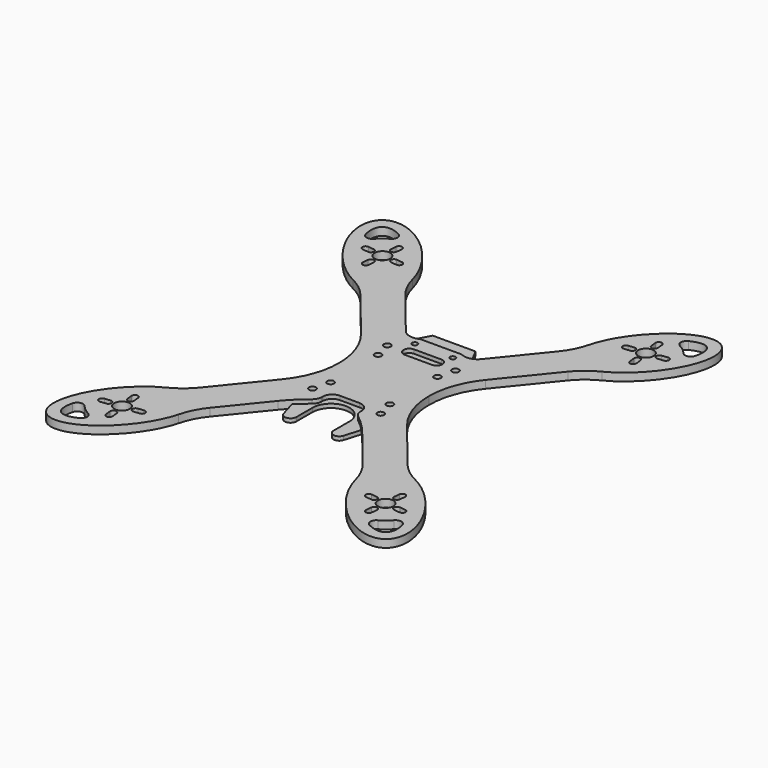
from build123d import *

# Parameters (mm, degrees)
F0_R     = 4
F0_R_2   = 1.75
F0_R_3   = 1.4
F1_DEPTH = 4
F2_R     = 1.75
F3_DEPTH = 2


with BuildPart() as f1:
    # F0 (on Top) → F1 (new body)
    with BuildSketch(Plane.XY):
        with BuildLine():
            ThreePointArc((-39.2393267224, 62.7576745554), (-42.9756447168, 68.5517778094), (-45.3841854866, 75.0117031985))
            add(Edge.make_bspline(
                [(-45.3841854866, 75.0117031985), (-59.3937717027, 130.1200718801), (-87.1608741604, 107.6347156618), (-114.9279766181, 85.1493594434), (-63.9366147696, 59.9882421881)],
                knots=[0.8420594112, 0.8420594112, 0.8420594112, 3.1415926536, 3.1415926536, 5.441125896, 5.441125896, 5.441125896], degree=2, weights=[1, 0.4087004495, 1, 0.4087004495, 1]))
            ThreePointArc((-63.9366147696, 59.9882421881), (-58.1186180332, 56.2892398026), (-53.2279540286, 51.4299075165))
            Line((-53.2279540286, 51.4299075165), (-31.9653802705, 25.172815642))
            ThreePointArc((-31.9653802705, 25.172815642), (-25.3455590851, 13.3522743694), (-23.0512187288, 0))
            ThreePointArc((-23.0512187288, 0), (-25.3455590851, -13.3522743694), (-31.9653802705, -25.172815642))
            Line((-31.9653802705, -25.172815642), (-53.2279540286, -51.4299075165))
            ThreePointArc((-53.2279540286, -51.4299075165), (-58.1186180332, -56.2892398026), (-63.9366147696, -59.9882421881))
            add(Edge.make_bspline(
                [(-63.9366147696, -59.9882421881), (-114.9279766181, -85.1493594434), (-87.1608741604, -107.6347156618), (-59.3937717027, -130.1200718801), (-45.3841854866, -75.0117031985)],
                knots=[0.8420594112, 0.8420594112, 0.8420594112, 3.1415926536, 3.1415926536, 5.441125896, 5.441125896, 5.441125896], degree=2, weights=[1, 0.4087004495, 1, 0.4087004495, 1]))
            ThreePointArc((-45.3841854866, -75.0117031985), (-42.9756447168, -68.5517778094), (-39.2393267224, -62.7576745554))
            Line((-39.2393267224, -62.7576745554), (-21.5595523941, -40.9249715093))
            ThreePointArc((-21.5595523941, -40.9249715093), (-17.0067464625, -35.910204232), (-11.917753439, -31.4405193771))
            ThreePointArc((-11.917753439, -31.4405193771), (-10.504934216, -29.6931545031), (-10, -27.5035464109))
            Line((-10, -27.5035464109), (-10, -27))
            ThreePointArc((-10, -27), (-8.5355339059, -23.4644660941), (-5, -22))
            Line((-5, -22), (5, -22))
            ThreePointArc((5, -22), (8.5355339059, -23.4644660941), (10, -27))
            Line((10, -27), (10, -27.5035464109))
            ThreePointArc((10, -27.5035464109), (10.504934216, -29.6931545031), (11.917753439, -31.4405193771))
            ThreePointArc((11.917753439, -31.4405193771), (17.0067464625, -35.910204232), (21.5595523941, -40.9249715093))
            Line((21.5595523941, -40.9249715093), (39.2393267224, -62.7576745554))
            ThreePointArc((39.2393267224, -62.7576745554), (42.9756447168, -68.5517778094), (45.3841854866, -75.0117031985))
            add(Edge.make_bspline(
                [(45.3841854866, -75.0117031985), (59.3937717027, -130.1200718801), (87.1608741604, -107.6347156618), (114.9279766181, -85.1493594434), (63.9366147696, -59.9882421881)],
                knots=[0.8420594112, 0.8420594112, 0.8420594112, 3.1415926536, 3.1415926536, 5.441125896, 5.441125896, 5.441125896], degree=2, weights=[1, 0.4087004495, 1, 0.4087004495, 1]))
            ThreePointArc((63.9366147696, -59.9882421881), (58.1186180332, -56.2892398026), (53.2279540286, -51.4299075165))
            Line((53.2279540286, -51.4299075165), (31.9653802705, -25.172815642))
            ThreePointArc((31.9653802705, -25.172815642), (25.3455590851, -13.3522743694), (23.0512187288, 0))
            ThreePointArc((23.0512187288, 0), (25.3455590851, 13.3522743694), (31.9653802705, 25.172815642))
            Line((31.9653802705, 25.172815642), (53.2279540286, 51.4299075165))
            ThreePointArc((53.2279540286, 51.4299075165), (58.1186180332, 56.2892398026), (63.9366147696, 59.9882421881))
            add(Edge.make_bspline(
                [(63.9366147696, 59.9882421881), (114.9279766181, 85.1493594434), (87.1608741604, 107.6347156618), (59.3937717027, 130.1200718801), (45.3841854866, 75.0117031985)],
                knots=[0.8420594112, 0.8420594112, 0.8420594112, 3.1415926536, 3.1415926536, 5.441125896, 5.441125896, 5.441125896], degree=2, weights=[1, 0.4087004495, 1, 0.4087004495, 1]))
            ThreePointArc((45.3841854866, 75.0117031985), (42.9756447168, 68.5517778094), (39.2393267224, 62.7576745554))
            Line((39.2393267224, 62.7576745554), (21.5595523941, 40.9249715093))
            Line((21.5595523941, 40.9249715093), (19.4235013429, 38.2871681399))
            ThreePointArc((19.4235013429, 38.2871681399), (15.7597702623, 35.9215326825), (11.4065789789, 36.183986865))
            ThreePointArc((11.4065789789, 36.183986865), (10.5932256837, 36.4202907649), (9.75, 36.5))
            Line((9.75, 36.5), (-9.75, 36.5))
            ThreePointArc((-9.75, 36.5), (-10.5932256837, 36.4202907649), (-11.4065789789, 36.183986865))
            ThreePointArc((-11.4065789789, 36.183986865), (-15.7597702623, 35.9215326825), (-19.4235013429, 38.2871681399))
            Line((-19.4235013429, 38.2871681399), (-21.5595523941, 40.9249715093))
            Line((-21.5595523941, 40.9249715093), (-39.2393267224, 62.7576745554))
        make_face()
        with BuildLine():
            add(Edge.make_bspline(
                [(-84.6149534226, -94.0407715285), (-88.5364815422, -109.3334493061), (-74.3933170072, -102.3180894908)],
                knots=[5.5655043619, 5.5655043619, 5.5655043619, 7.0008662525, 7.0008662525, 7.0008662525], degree=2, weights=[1, 0.7533328553, 1]))
            ThreePointArc((-84.6149534226, -94.0407715285), (-82.3396279682, -91.8529919558), (-79.3661377164, -92.9121619636))
            ThreePointArc((-79.3661377165, -92.9121619636), (-77.0917479036, -95.2003802785), (-74.3806604174, -96.9493218783))
            ThreePointArc((-74.3806604174, -96.9493218782), (-72.7264124296, -99.6376204066), (-74.3933170072, -102.3180894908))
        make_face(mode=Mode.SUBTRACT)
        with BuildLine():
            ThreePointArc((-74.283579899, -82.6313908353), (-72.5250993252, -84.0553803266), (-73.9490888165, -85.8138609005))
            Line((-73.9490888165, -85.8138609005), (-76.9326545026, -86.1274462903))
            ThreePointArc((-76.9326545026, -86.1274462903), (-78.6911350764, -84.7034567989), (-77.2671455851, -82.9449762251))
            Line((-77.2671455851, -82.9449762251), (-74.283579899, -82.6313908353))
        make_face(mode=Mode.SUBTRACT)
        with BuildLine():
            ThreePointArc((-65.0676866042, -92.8239033214), (-66.4916760956, -94.5823838952), (-68.2501566694, -93.1583944039))
            Line((-68.2501566694, -93.1583944039), (-68.5637420592, -90.1748287177))
            ThreePointArc((-68.5637420592, -90.1748287177), (-67.1397525678, -88.4163481439), (-65.381271994, -89.8403376353))
            Line((-65.381271994, -89.8403376353), (-65.0676866042, -92.8239033214))
        make_face(mode=Mode.SUBTRACT)
        with Locations((-67.6519420379, -83.5431908566)):
            Circle(F0_R, mode=Mode.SUBTRACT)
        with BuildLine():
            Line((-58.0367384906, -84.1414054882), (-61.0203041767, -84.454990878))
            ThreePointArc((-61.0203041767, -84.454990878), (-62.7787847506, -83.0310013866), (-61.3547952592, -81.2725208128))
            Line((-61.3547952592, -81.2725208128), (-58.3712295731, -80.958935423))
            ThreePointArc((-58.3712295731, -80.958935423), (-56.6127489993, -82.3829249144), (-58.0367384906, -84.1414054882))
        make_face(mode=Mode.SUBTRACT)
        with BuildLine():
            ThreePointArc((-66.7401420165, -76.9115529955), (-68.1641315079, -78.6700335693), (-69.9226120817, -77.246044078))
            Line((-69.9226120817, -77.246044078), (-70.2361974715, -74.2624783919))
            ThreePointArc((-70.2361974715, -74.2624783919), (-68.8122079801, -72.503997818), (-67.0537274063, -73.9279873094))
            Line((-67.0537274063, -73.9279873094), (-66.7401420165, -76.9115529955))
        make_face(mode=Mode.SUBTRACT)
        with Locations((-17.5, -24)):
            Circle(F0_R_2, mode=Mode.SUBTRACT)
        with Locations((-15.25, -15.25)):
            Circle(F0_R_2, mode=Mode.SUBTRACT)
        with BuildLine():
            ThreePointArc((65.381271994, -89.8403376353), (67.1397525678, -88.4163481439), (68.5637420592, -90.1748287177))
            Line((68.5637420592, -90.1748287177), (68.2501566694, -93.1583944039))
            ThreePointArc((68.2501566694, -93.1583944039), (66.4916760956, -94.5823838952), (65.0676866042, -92.8239033214))
            Line((65.0676866042, -92.8239033214), (65.381271994, -89.8403376353))
        make_face(mode=Mode.SUBTRACT)
        with BuildLine():
            Line((58.3712295731, -80.958935423), (61.3547952592, -81.2725208128))
            ThreePointArc((61.3547952592, -81.2725208128), (62.7787847506, -83.0310013866), (61.0203041767, -84.454990878))
            Line((61.0203041767, -84.454990878), (58.0367384906, -84.1414054882))
            ThreePointArc((58.0367384906, -84.1414054882), (56.6127489993, -82.3829249144), (58.3712295731, -80.958935423))
        make_face(mode=Mode.SUBTRACT)
        with Locations((67.6519420379, -83.5431908566)):
            Circle(F0_R, mode=Mode.SUBTRACT)
        with BuildLine():
            add(Edge.make_bspline(
                [(74.3933170072, -102.3180894908), (88.5364815422, -109.3334493061), (84.6149534226, -94.0407715285)],
                knots=[5.5655043619, 5.5655043619, 5.5655043619, 7.0008662525, 7.0008662525, 7.0008662525], degree=2, weights=[1, 0.7533328553, 1]))
            ThreePointArc((74.3933170072, -102.3180894908), (72.7264124296, -99.6376204066), (74.3806604174, -96.9493218782))
            ThreePointArc((74.3806604174, -96.9493218783), (77.0917479036, -95.2003802785), (79.3661377165, -92.9121619636))
            ThreePointArc((79.3661377164, -92.9121619636), (82.3396279682, -91.8529919558), (84.6149534226, -94.0407715285))
        make_face(mode=Mode.SUBTRACT)
        with BuildLine():
            Line((76.9326545026, -86.1274462903), (73.9490888165, -85.8138609005))
            ThreePointArc((73.9490888165, -85.8138609005), (72.5250993252, -84.0553803266), (74.283579899, -82.6313908353))
            Line((74.283579899, -82.6313908353), (77.2671455851, -82.9449762251))
            ThreePointArc((77.2671455851, -82.9449762251), (78.6911350764, -84.7034567989), (76.9326545026, -86.1274462903))
        make_face(mode=Mode.SUBTRACT)
        with BuildLine():
            Line((70.2361974715, -74.2624783919), (69.9226120817, -77.246044078))
            ThreePointArc((69.9226120817, -77.246044078), (68.1641315079, -78.6700335693), (66.7401420165, -76.9115529955))
            Line((66.7401420165, -76.9115529955), (67.0537274063, -73.9279873094))
            ThreePointArc((67.0537274063, -73.9279873094), (68.8122079801, -72.503997818), (70.2361974715, -74.2624783919))
        make_face(mode=Mode.SUBTRACT)
        with Locations((17.5, -24)):
            Circle(F0_R_2, mode=Mode.SUBTRACT)
        with Locations((15.25, -15.25)):
            Circle(F0_R_2, mode=Mode.SUBTRACT)
        with Locations((-15.25, 15.25)):
            Circle(F0_R_2, mode=Mode.SUBTRACT)
        with Locations((-17.5, 24)):
            Circle(F0_R_2, mode=Mode.SUBTRACT)
        with Locations((-9.75, 32)):
            Circle(F0_R_3, mode=Mode.SUBTRACT)
        with BuildLine():
            Line((-66.7401420165, 76.9115529955), (-67.0537274063, 73.9279873094))
            ThreePointArc((-67.0537274063, 73.9279873094), (-68.8122079801, 72.503997818), (-70.2361974715, 74.2624783919))
            Line((-70.2361974715, 74.2624783919), (-69.9226120817, 77.246044078))
            ThreePointArc((-69.9226120817, 77.246044078), (-68.1641315079, 78.6700335693), (-66.7401420165, 76.9115529955))
        make_face(mode=Mode.SUBTRACT)
        with BuildLine():
            Line((-74.283579899, 82.6313908353), (-77.2671455851, 82.9449762251))
            ThreePointArc((-77.2671455851, 82.9449762251), (-78.6911350764, 84.7034567989), (-76.9326545026, 86.1274462903))
            Line((-76.9326545026, 86.1274462903), (-73.9490888165, 85.8138609005))
            ThreePointArc((-73.9490888165, 85.8138609005), (-72.5250993252, 84.0553803266), (-74.283579899, 82.6313908353))
        make_face(mode=Mode.SUBTRACT)
        with BuildLine():
            add(Edge.make_bspline(
                [(-74.3933170072, 102.3180894908), (-88.5364815422, 109.3334493061), (-84.6149534226, 94.0407715285)],
                knots=[5.5655043619, 5.5655043619, 5.5655043619, 7.0008662525, 7.0008662525, 7.0008662525], degree=2, weights=[1, 0.7533328553, 1]))
            ThreePointArc((-74.3933170072, 102.3180894908), (-72.7264124296, 99.6376204066), (-74.3806604174, 96.9493218782))
            ThreePointArc((-74.3806604174, 96.9493218783), (-77.0917479036, 95.2003802785), (-79.3661377165, 92.9121619636))
            ThreePointArc((-79.3661377164, 92.9121619636), (-82.3396279682, 91.8529919558), (-84.6149534226, 94.0407715285))
        make_face(mode=Mode.SUBTRACT)
        with Locations((-67.6519420379, 83.5431908566)):
            Circle(F0_R, mode=Mode.SUBTRACT)
        with BuildLine():
            Line((-61.0203041767, 84.454990878), (-58.0367384906, 84.1414054882))
            ThreePointArc((-58.0367384906, 84.1414054882), (-56.6127489993, 82.3829249144), (-58.3712295731, 80.958935423))
            Line((-58.3712295731, 80.958935423), (-61.3547952592, 81.2725208128))
            ThreePointArc((-61.3547952592, 81.2725208128), (-62.7787847506, 83.0310013866), (-61.0203041767, 84.454990878))
        make_face(mode=Mode.SUBTRACT)
        with BuildLine():
            Line((-65.0676866042, 92.8239033214), (-65.381271994, 89.8403376353))
            ThreePointArc((-65.381271994, 89.8403376353), (-67.1397525678, 88.4163481439), (-68.5637420592, 90.1748287177))
            Line((-68.5637420592, 90.1748287177), (-68.2501566694, 93.1583944039))
            ThreePointArc((-68.2501566694, 93.1583944039), (-66.4916760956, 94.5823838952), (-65.0676866042, 92.8239033214))
        make_face(mode=Mode.SUBTRACT)
        with BuildLine():
            ThreePointArc((-10, 25), (-9.1213203436, 27.1213203436), (-7, 28))
            Line((-7, 28), (7, 28))
            ThreePointArc((7, 28), (9.1213203436, 27.1213203436), (10, 25))
            ThreePointArc((10, 25), (9.1213203436, 22.8786796564), (7, 22))
            Line((7, 22), (-7, 22))
            ThreePointArc((-7, 22), (-9.1213203436, 22.8786796564), (-10, 25))
        make_face(mode=Mode.SUBTRACT)
        with Locations((15.25, 15.25)):
            Circle(F0_R_2, mode=Mode.SUBTRACT)
        with Locations((17.5, 24)):
            Circle(F0_R_2, mode=Mode.SUBTRACT)
        with Locations((9.75, 32)):
            Circle(F0_R_3, mode=Mode.SUBTRACT)
        with BuildLine():
            ThreePointArc((66.7401420165, 76.9115529955), (68.1641315079, 78.6700335693), (69.9226120817, 77.246044078))
            Line((69.9226120817, 77.246044078), (70.2361974715, 74.2624783919))
            ThreePointArc((70.2361974715, 74.2624783919), (68.8122079801, 72.503997818), (67.0537274063, 73.9279873094))
            Line((67.0537274063, 73.9279873094), (66.7401420165, 76.9115529955))
        make_face(mode=Mode.SUBTRACT)
        with BuildLine():
            Line((58.0367384906, 84.1414054882), (61.0203041767, 84.454990878))
            ThreePointArc((61.0203041767, 84.454990878), (62.7787847506, 83.0310013866), (61.3547952592, 81.2725208128))
            Line((61.3547952592, 81.2725208128), (58.3712295731, 80.958935423))
            ThreePointArc((58.3712295731, 80.958935423), (56.6127489993, 82.3829249144), (58.0367384906, 84.1414054882))
        make_face(mode=Mode.SUBTRACT)
        with Locations((67.6519420379, 83.5431908566)):
            Circle(F0_R, mode=Mode.SUBTRACT)
        with BuildLine():
            ThreePointArc((65.0676866042, 92.8239033214), (66.4916760956, 94.5823838952), (68.2501566694, 93.1583944039))
            Line((68.2501566694, 93.1583944039), (68.5637420592, 90.1748287177))
            ThreePointArc((68.5637420592, 90.1748287177), (67.1397525678, 88.4163481439), (65.381271994, 89.8403376353))
            Line((65.381271994, 89.8403376353), (65.0676866042, 92.8239033214))
        make_face(mode=Mode.SUBTRACT)
        with BuildLine():
            ThreePointArc((74.283579899, 82.6313908353), (72.5250993252, 84.0553803266), (73.9490888165, 85.8138609005))
            Line((73.9490888165, 85.8138609005), (76.9326545026, 86.1274462903))
            ThreePointArc((76.9326545026, 86.1274462903), (78.6911350764, 84.7034567989), (77.2671455851, 82.9449762251))
            Line((77.2671455851, 82.9449762251), (74.283579899, 82.6313908353))
        make_face(mode=Mode.SUBTRACT)
        with BuildLine():
            add(Edge.make_bspline(
                [(84.6149534226, 94.0407715285), (88.5364815422, 109.3334493061), (74.3933170072, 102.3180894908)],
                knots=[5.5655043619, 5.5655043619, 5.5655043619, 7.0008662525, 7.0008662525, 7.0008662525], degree=2, weights=[1, 0.7533328553, 1]))
            ThreePointArc((84.6149534226, 94.0407715285), (82.3396279682, 91.8529919558), (79.3661377164, 92.9121619636))
            ThreePointArc((79.3661377165, 92.9121619636), (77.0917479036, 95.2003802785), (74.3806604174, 96.9493218783))
            ThreePointArc((74.3806604174, 96.9493218782), (72.7264124296, 99.6376204066), (74.3933170072, 102.3180894908))
        make_face(mode=Mode.SUBTRACT)
    extrude(amount=F1_DEPTH)


with BuildPart() as f3:
    # F2 (on Top) → F3 (new body)
    with BuildSketch(Plane.XY):
        with BuildLine():
            Line((0, 28), (-17.5, 28))
            ThreePointArc((-17.5, 28), (-19.5696459988, 27.4229468941), (-21.0421441717, 25.8582827198))
            ThreePointArc((-21.0421441717, 25.8582827198), (-21.4713339357, 23.5219761813), (-20.5, 21.3542486889))
            ThreePointArc((-20.5, 21.3542486889), (-18.6458565331, 18.2754043172), (-18, 14.7398704113))
            Line((-18, 14.7398704113), (-18, 0))
            Line((-18, 0), (-18, -14.7398704113))
            ThreePointArc((-18, -14.7398704113), (-18.6458565331, -18.2754043172), (-20.5, -21.3542486889))
            ThreePointArc((-20.5, -21.3542486889), (-21.4061344054, -23.1385396082), (-21.3345698033, -25.1384526445))
            Line((-21.3345698033, -25.1384526445), (-15.3759273525, -45.2085280403))
            ThreePointArc((-15.3759273525, -45.2085280403), (-12.0685965098, -47.3235083609), (-9.5, -44.3546885569))
            Line((-9.5, -44.3546885569), (-9.5, -34))
            ThreePointArc((-9.5, -34), (0, -24.5), (9.5, -34))
            Line((9.5, -34), (9.5, -44.3546885569))
            ThreePointArc((9.5, -44.3546885569), (12.0685965098, -47.3235083609), (15.3759273525, -45.2085280403))
            Line((15.3759273525, -45.2085280403), (21.3345698033, -25.1384526445))
            ThreePointArc((21.3345698033, -25.1384526445), (21.4061344054, -23.1385396082), (20.5, -21.3542486889))
            ThreePointArc((20.5, -21.3542486889), (18.6458565331, -18.2754043172), (18, -14.7398704113))
            Line((18, -14.7398704113), (18, 0))
            Line((18, 0), (18, 14.7398704113))
            ThreePointArc((18, 14.7398704113), (18.6458565331, 18.2754043172), (20.5, 21.3542486889))
            ThreePointArc((20.5, 21.3542486889), (21.4713339357, 23.5219761813), (21.0421441717, 25.8582827198))
            ThreePointArc((21.0421441717, 25.8582827198), (19.5696459988, 27.4229468941), (17.5, 28))
            Line((17.5, 28), (0, 28))
        make_face()
        with Locations((-17.5, -24)):
            Circle(F2_R, mode=Mode.SUBTRACT)
        with Locations((17.5, -24)):
            Circle(F2_R, mode=Mode.SUBTRACT)
        with Locations((-17.5, 24)):
            Circle(F2_R, mode=Mode.SUBTRACT)
        with Locations((17.5, 24)):
            Circle(F2_R, mode=Mode.SUBTRACT)
        with BuildLine():
            ThreePointArc((-21.0421441717, 25.8582827198), (-19.5696459988, 27.4229468941), (-17.5, 28))
            Line((-17.5, 28), (0, 28))
            Line((0, 28), (17.5, 28))
            ThreePointArc((17.5, 28), (19.5696459988, 27.4229468941), (21.0421441717, 25.8582827198))
            Line((21.0421441717, 25.8582827198), (11, 45))
            Line((11, 45), (-11, 45))
            Line((-11, 45), (-21.0421441717, 25.8582827198))
        make_face()
    extrude(amount=F3_DEPTH)


solid = Compound([f1.part, f3.part])
